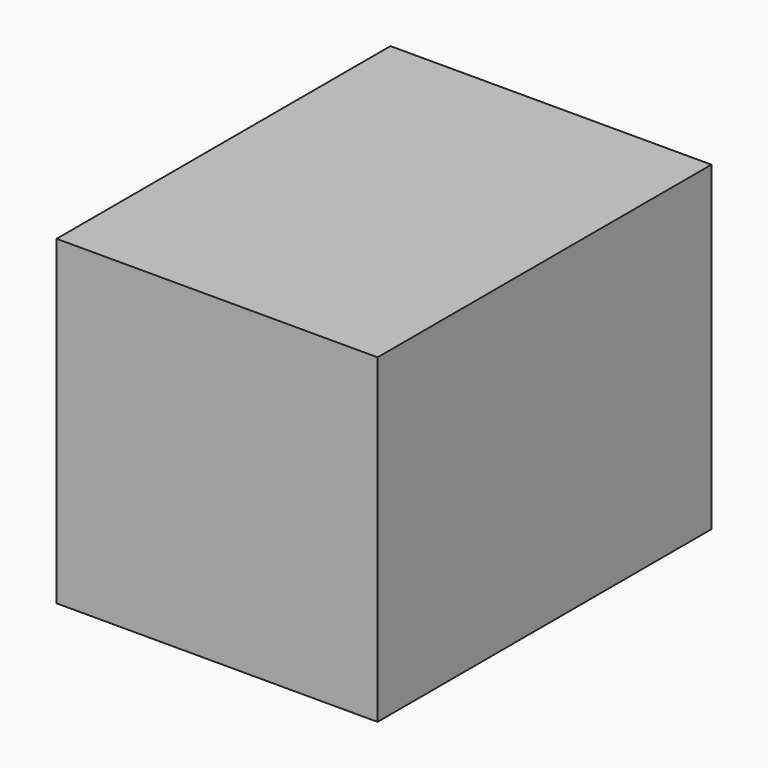
from build123d import *

# Parameters (mm, degrees)
RECTANGLE_W      = 100
RECTANGLE_H      = 130
EXTRUDE_DEPTH    = 100
EXTRUDE001_DEPTH = 100


with BuildPart() as extrude_body:
    # Rectangle → Extrude (new body)
    with BuildSketch(Plane(origin=(-50, -65, 0), x_dir=(1, 0, 0), z_dir=(0, 0, 1))):
        with Locations((50, 65)):
            Rectangle(RECTANGLE_W, RECTANGLE_H)
    extrude(amount=EXTRUDE_DEPTH)


with BuildPart() as extrude001:
    # Rectangle → Extrude001 (new body)
    with BuildSketch(Plane(origin=(-50, -65, 0), x_dir=(1, 0, 0), z_dir=(0, 0, 1))):
        with Locations((50, 65)):
            Rectangle(RECTANGLE_W, RECTANGLE_H)
    extrude(amount=EXTRUDE001_DEPTH)


solid = Compound([extrude_body.part, extrude001.part])
